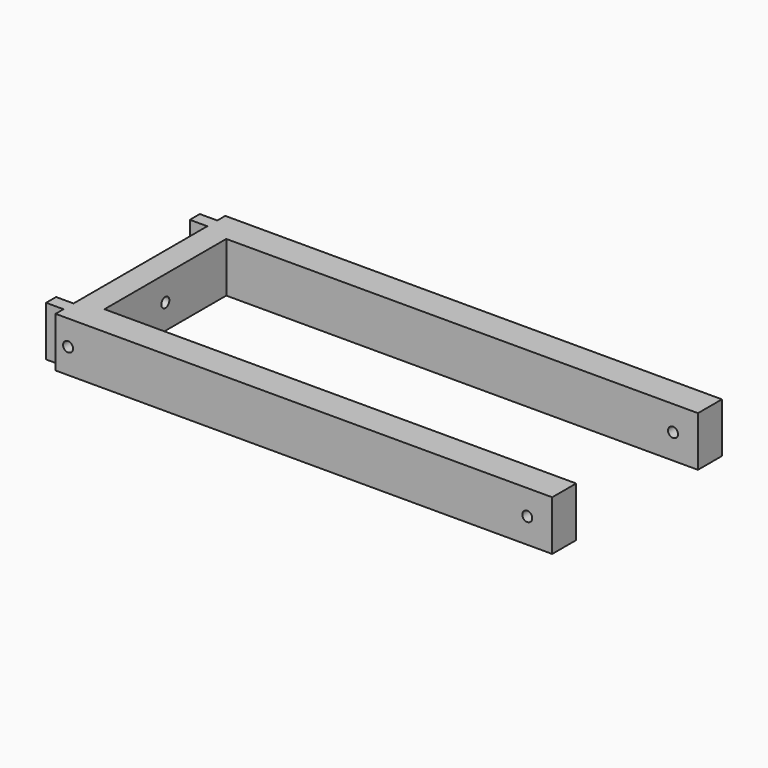
from build123d import *

# Parameters (mm, degrees)
PAD_DEPTH       = 20
SKETCH004_R     = 2
POCKET002_DEPTH = 199.001
SKETCH005_R     = 2
POCKET003_DEPTH = 85.001


with BuildPart() as part:
    # Sketch → Pad (new body)
    with BuildSketch(Plane.XY):
        Polygon((-10, -42.5), (189, -42.5), (189, -30.5), (0, -30.5), (0, 30.5), (189, 30.5), (189, 42.5), (-10, 42.5), (-10, 38.5), (-17, 38.5), (-17, 33.5), (-10, 33.5), (-10, -33.5), (-17, -33.5), (-17, -38.5), (-10, -38.5), align=None)
    extrude(amount=PAD_DEPTH)

    # Sketch004 → Pocket002 (cut, through all)
    with BuildSketch(Plane(origin=(-10, 0, 0), x_dir=(0, -1, 0), z_dir=(-1, 0, 0))):
        with Locations((0, 10)):
            Circle(SKETCH004_R)
    extrude(amount=-POCKET002_DEPTH, mode=Mode.SUBTRACT)

    # Sketch005 → Pocket003 (cut, through all)
    with BuildSketch(Plane.XZ.offset(42.5)):
        with Locations((-5, 10)):
            Circle(SKETCH005_R)
        with Locations((179, 10)):
            Circle(SKETCH005_R)
    extrude(amount=-POCKET003_DEPTH, mode=Mode.SUBTRACT)


solid = part.part
